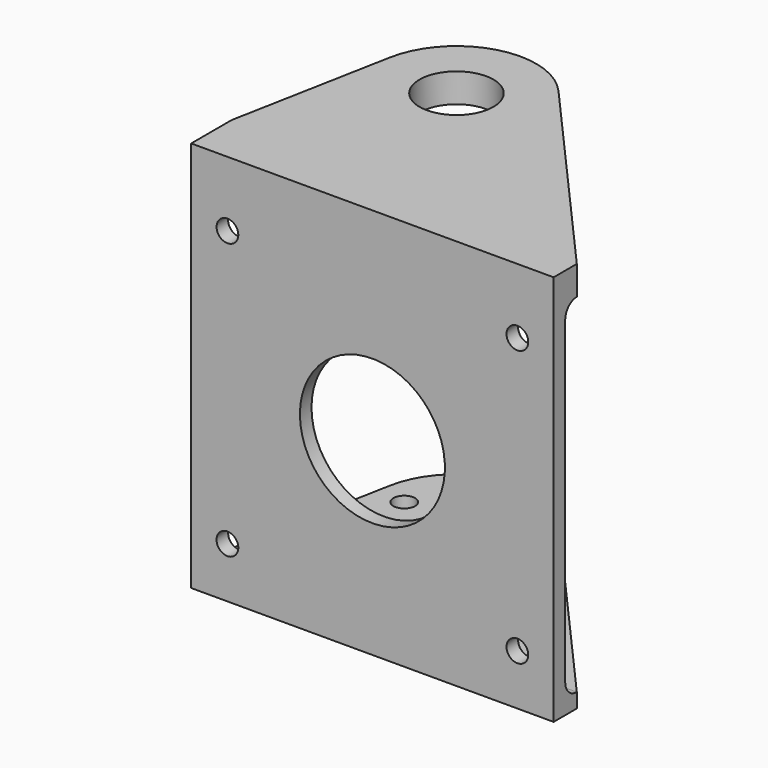
from build123d import *

# Parameters (mm, degrees)
SKETCH_W     = 50
SKETCH_H     = 48
SKETCH_R     = 1.5
SKETCH_R_2   = 10
PAD_DEPTH    = 2
SKETCH003_R  = 1.5
PAD001_DEPTH = 2
SKETCH004_R  = 5.1
PAD002_DEPTH = 4
FILLET_R     = 1.99
FILLET001_R  = 1.99


with BuildPart() as body:
    # Sketch → Pad (new body)
    with BuildSketch(Plane.XZ):
        Rectangle(SKETCH_W, SKETCH_H)
        with Locations((-20, 19)):
            Circle(SKETCH_R, mode=Mode.SUBTRACT)
        with Locations((20, 19)):
            Circle(SKETCH_R, mode=Mode.SUBTRACT)
        with Locations((-20, -19)):
            Circle(SKETCH_R, mode=Mode.SUBTRACT)
        with Locations((20, -19)):
            Circle(SKETCH_R, mode=Mode.SUBTRACT)
        Circle(SKETCH_R_2, mode=Mode.SUBTRACT)
    extrude(amount=PAD_DEPTH)

    # Sketch003 (on Face3 of Pad) → Pad001 (join)
    with BuildSketch(Plane(origin=(0, 0, -24), x_dir=(1, 0, 0), z_dir=(0, 0, -1))):
        with BuildLine():
            Line((-25, 0), (-25, 2))
            Line((-25, 2), (25, 2))
            Line((25, 2), (25, 0))
            Line((25, 0), (25, -5))
            Line((25, -5), (20.80638, -27.054785))
            ThreePointArc((1.756653, -32.283353), (12.911489, -35.607697), (20.80638, -27.054785))
            Line((-25, -2), (1.756653, -32.283353))
            Line((-25, 0), (-25, -2))
        make_face()
        with Locations((10, -31.934549)):
            Circle(SKETCH003_R, mode=Mode.SUBTRACT)
        with Locations((17.205, -25)):
            Circle(SKETCH003_R, mode=Mode.SUBTRACT)
        with Locations((10, -25)):
            Circle(SKETCH003_R, mode=Mode.SUBTRACT)
        with Locations((2.795, -25)):
            Circle(SKETCH003_R, mode=Mode.SUBTRACT)
        with Locations((10, -18.065451)):
            Circle(SKETCH003_R, mode=Mode.SUBTRACT)
    extrude(amount=PAD001_DEPTH)

    # Sketch004 (on Face1 of Pad) → Pad002 (join)
    with BuildSketch(Plane(origin=(0, 0, 24), x_dir=(-1, 0, 0), z_dir=(0, 0, 1))):
        with BuildLine():
            Line((-25, 2), (25, 2))
            Line((25, 2), (25, 0))
            Line((25, 0), (25, -2))
            Line((25, -2), (-1.756653, -32.283353))
            ThreePointArc((-20.80638, -27.054785), (-12.911489, -35.607697), (-1.756653, -32.283353))
            Line((-25, -5), (-20.80638, -27.054785))
            Line((-25, 0), (-25, -5))
            Line((-25, 0), (-25, 2))
        make_face()
        with Locations((-10, -25)):
            Circle(SKETCH004_R, mode=Mode.SUBTRACT)
    extrude(amount=PAD002_DEPTH)

    # Fillet
    fillet_edges = [body.edges().sort_by_distance(p)[0] for p in [
        (0, 0, 24),
    ]]
    fillet(fillet_edges, radius=FILLET_R)

    # Fillet001
    fillet001_edges = [body.edges().sort_by_distance(p)[0] for p in [
        (0, 0, -24),
    ]]
    fillet(fillet001_edges, radius=FILLET001_R)


with BuildPart() as part_mirroring:
    # Part__Mirroring: instance of Body
    add(body.part.mirror(Plane(origin=(0, 0, 0), x_dir=(0, -1, 0), z_dir=(1, 0, 0))))


solid = part_mirroring.part
